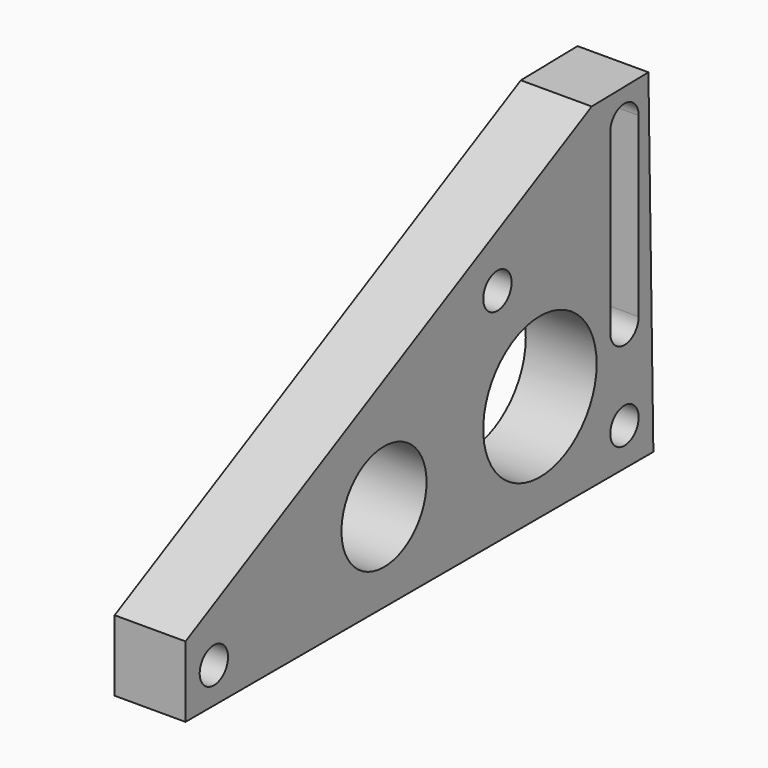
from build123d import *

# Parameters (mm, degrees)
F0_R     = 1
F0_R_2   = 3
F0_R_3   = 4
F1_DEPTH = 2


with BuildPart() as f1:
    # F0 (on Right) → F1 (new body, symmetric)
    with BuildSketch(Plane.YZ):
        Polygon((37.22381, -9.563309), (36.875002, 9.436691), (32.875002, 9.363257), (4.22381, -5.563309), (4.22381, -9.563309), align=None)
        with Locations((6.22381, -7.559359)):
            Circle(F0_R, mode=Mode.SUBTRACT)
        with Locations((18.22381, -4.563309)):
            Circle(F0_R_2, mode=Mode.SUBTRACT)
        with Locations((35.184259, -7.427278)):
            Circle(F0_R, mode=Mode.SUBTRACT)
        with Locations((29.22381, -3.563309)):
            Circle(F0_R_3, mode=Mode.SUBTRACT)
        with Locations((26.22381, 2.916667)):
            Circle(F0_R, mode=Mode.SUBTRACT)
        with BuildLine():
            Line((34.184259, -2.427278), (34.184259, 7.572722))
            ThreePointArc((34.184259, 7.572722), (35.184259, 8.572722), (36.184259, 7.572722))
            Line((36.184259, 7.572722), (36.184259, -2.427278))
            ThreePointArc((36.184259, -2.427278), (35.184259, -3.427278), (34.184259, -2.427278))
        make_face(mode=Mode.SUBTRACT)
    extrude(amount=F1_DEPTH, both=True)


solid = f1.part
